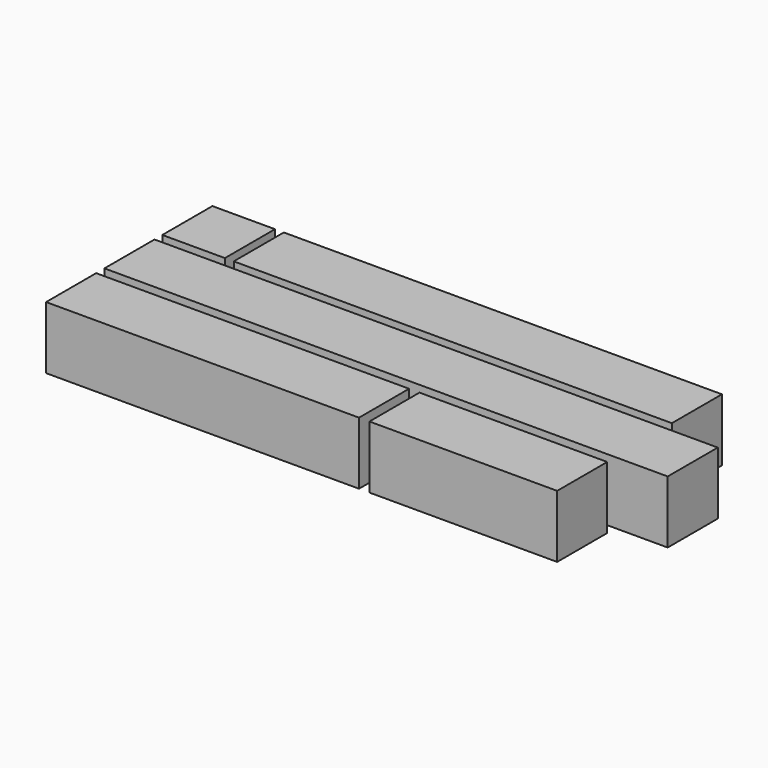
from build123d import *

# Parameters (mm, degrees)
F0_W     = 25.4
F0_H     = 25.4
F0_W_2   = 228.6
F0_W_3   = 177.8
F0_W_4   = 127
F0_W_5   = 76.2
F1_DEPTH = 25.4


with BuildPart() as f1:
    # F0 (on Top) → F1 (new body)
    with BuildSketch(Plane.XY):
        with Locations((-104.203275, 42.071381)):
            Rectangle(F0_W, F0_H)
        with Locations((-2.603275, 12.7)):
            Rectangle(F0_W_2, F0_H)
        with Locations((0.987247, 42.071381)):
            Rectangle(F0_W_3, F0_H)
        with Locations((-53.403275, -16.896581)):
            Rectangle(F0_W_4, F0_H)
        with Locations((52.416944, -16.896581)):
            Rectangle(F0_W_5, F0_H)
    extrude(amount=F1_DEPTH)


solid = f1.part
